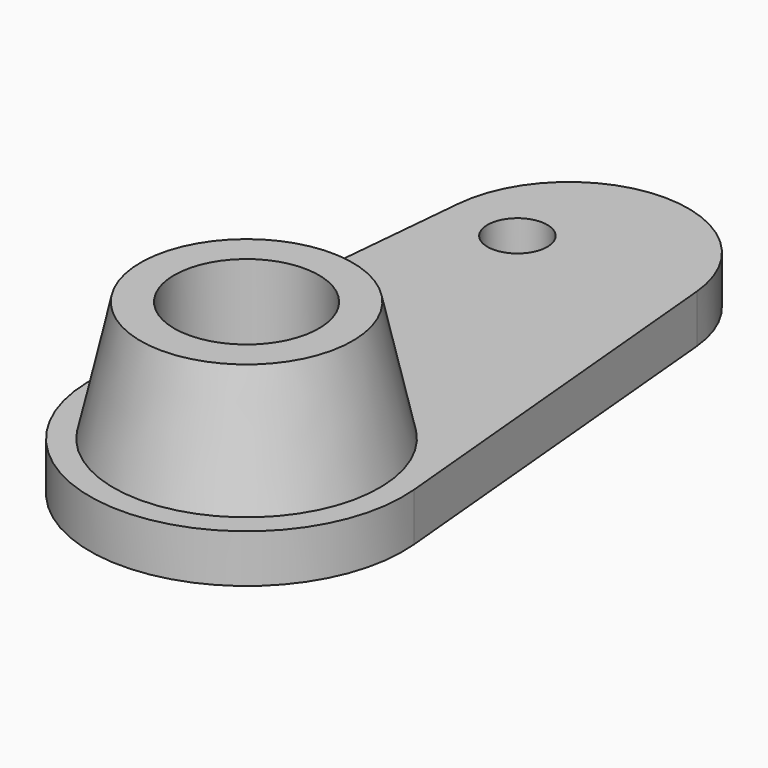
from build123d import *

# Parameters (mm, degrees)
F1_DEPTH = 12.7
F5_D     = 38.1
F7_D     = 15.748


with BuildPart() as f1:
    # F0 (on Top) → F1 (new body)
    with BuildSketch(Plane.XY):
        with BuildLine():
            Line((-31.362119, 109.072947), (-41.099551, 3.801645))
            ThreePointArc((-41.099551, 3.801645), (0, -41.275), (41.099551, 3.801645))
            Line((41.099551, 3.801645), (31.362119, 109.072947))
            ThreePointArc((31.362119, 109.072947), (0, 137.668), (-31.362119, 109.072947))
        make_face()
    extrude(amount=F1_DEPTH)

    # F2 (on Right) → F3 (revolve)
    with BuildSketch(Plane.YZ):
        Polygon((-27.94, 44.45), (-35.052, 12.7), (0, 12.7), (0, 44.45), align=None)
    revolve(axis=Axis((0, 0, 28.575), (0, 0, -1)))

    # F5 (through all)
    with Locations(Plane.XY.offset(44.45)):
        with Locations((0, 0)):
            Hole(F5_D / 2)

    # F7 (through all)
    with Locations(Plane.XY.offset(12.7)):
        with Locations((-12.939112, 105.38061)):
            Hole(F7_D / 2)


solid = f1.part
